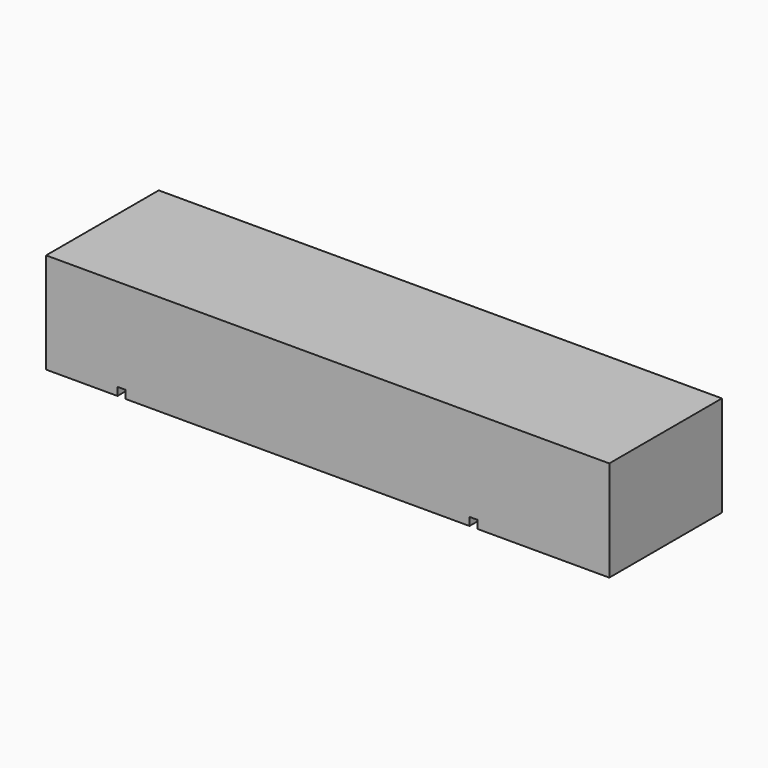
from build123d import *

# Parameters (mm, degrees)
F0_W          = 177.8
F0_H          = 31.75
F3_DEPTH      = 22.225
F1_W          = 2.54
F1_H          = 2.54
F2_DEPTH      = 22.225
F2_DEPTH_BACK = 22.225


with BuildPart() as f3:
    # F0 (on Front) → F3 (new body, symmetric)
    with BuildSketch(Plane.XZ):
        Rectangle(F0_W, F0_H)
    extrude(amount=F3_DEPTH, both=True)

    # F1 (on Front) → F2 (cut, two sides)
    with BuildSketch(Plane.XZ) as f2_sk:
        with Locations((-65.0875, -14.605)):
            Rectangle(F1_W, F1_H)
        with Locations((46.0375, -14.605)):
            Rectangle(F1_W, F1_H)
    extrude(amount=F2_DEPTH, mode=Mode.SUBTRACT)
    extrude(f2_sk.sketch, amount=-F2_DEPTH_BACK, mode=Mode.SUBTRACT)


solid = f3.part
